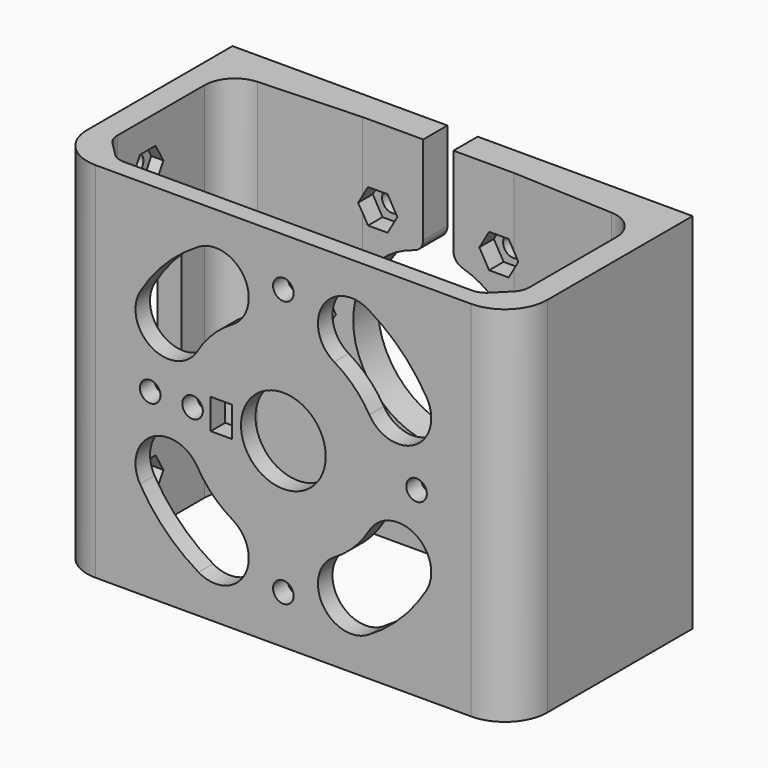
from build123d import *

# Parameters (mm, degrees)
SKETCH_W              = 76
SKETCH_H              = 37
PAD_DEPTH             = 30
SKETCH020_R           = 14
POCKET_DEPTH          = 8
SKETCH026_R           = 1.7
PAD001_DEPTH          = 2
POCKET001_DEPTH       = 5
POLARPATTERN_COUNT    = 6
SKETCH025_R           = 1.7
POCKET005_DEPTH       = 212.317184
POLARPATTERN001_COUNT = 6
SKETCH022_R           = 1.7
SKETCH022_R_2         = 7
SKETCH022_W           = 3.5
SKETCH022_H           = 5
POCKET002_DEPTH       = 5
SKETCH027_W           = 5
SKETCH027_H           = 30
POCKET006_DEPTH       = 5.001
SKETCH028_R           = 1.6
POCKET007_DEPTH       = 5
POCKET008_DEPTH       = 2
FILLET_R              = 7
FILLET001_R           = 7
FILLET002_R           = 5
FILLET003_R           = 5
FILLET004_R           = 3
FILLET005_R           = 3
FILLET006_R           = 3
FILLET007_R           = 3
FILLET008_R           = 2
FILLET009_R           = 2


with BuildPart() as part:
    # Sketch → Pad (new body, symmetric)
    with BuildSketch(Plane.XY):
        Rectangle(SKETCH_W, SKETCH_H)
        Polygon((-34, -11.5), (-30, -15.5), (30, -15.5), (34, -11.5), (34, 12.5), (12.5, 13.5), (-12.5, 13.5), (-34, 12.5), align=None, mode=Mode.SUBTRACT)
    extrude(amount=PAD_DEPTH, both=True)

    # Sketch020 → Pocket (cut)
    with BuildSketch(Plane(origin=(0, 18.5, 0), x_dir=(-1, 0, 0), z_dir=(0, 1, 0))):
        Circle(SKETCH020_R)
    extrude(amount=-POCKET_DEPTH, mode=Mode.SUBTRACT)

    # Sketch026 → Pad001 (new body)
    with BuildSketch(Plane.XZ.offset(-13.5)):
        with Locations((20, 0)):
            Circle(SKETCH026_R)
    extrude(amount=PAD001_DEPTH)

    # Sketch021 → Pocket001 (cut)
    with BuildSketch(Plane.XZ.offset(-11.5)):
        Polygon((18.383419, 2.8), (16.766838, 0), (18.383419, -2.8), (21.616581, -2.8), (23.233162, 0), (21.616581, 2.8), align=None)
    pocket001 = extrude(amount=-POCKET001_DEPTH, mode=Mode.SUBTRACT)

    # PolarPattern: Pocket001 ×6 about axis
    polarpattern_axis = Axis((0, 11.5, 0), (0, -1, 0))
    for i in range(1, POLARPATTERN_COUNT):
        add(pocket001.rotate(polarpattern_axis, i * 360 / POLARPATTERN_COUNT), mode=Mode.SUBTRACT)

    # Sketch025 → Pocket005 (cut, through all)
    with BuildSketch(Plane.XZ.offset(-13.5)):
        with Locations((20, 0)):
            Circle(SKETCH025_R)
    pocket005 = extrude(amount=-POCKET005_DEPTH, mode=Mode.SUBTRACT)

    # PolarPattern001: Pocket005 ×6 about axis
    polarpattern001_axis = Axis((0, 13.5, 0), (0, -1, 0))
    for i in range(1, POLARPATTERN001_COUNT):
        add(pocket005.rotate(polarpattern001_axis, i * 360 / POLARPATTERN001_COUNT), mode=Mode.SUBTRACT)

    # Sketch022 → Pocket002 (cut)
    with BuildSketch(Plane.XZ.offset(18.5)):
        with Locations((0, 22)):
            Circle(SKETCH022_R)
        with Locations((0, -22)):
            Circle(SKETCH022_R)
        with Locations((-22, 0)):
            Circle(SKETCH022_R)
        with Locations((22, 0)):
            Circle(SKETCH022_R)
        Circle(SKETCH022_R_2)
        with Locations((-15, 0)):
            Circle(SKETCH022_R)
        with BuildLine():
            ThreePointArc((-23.660997, 14.014536), (-21.731705, 6.47943), (-14.196598, 8.408722))
            ThreePointArc((-8.408722, 14.196598), (-11.667262, 11.667262), (-14.196598, 8.408722))
            ThreePointArc((-8.408722, 14.196598), (-6.47943, 21.731705), (-14.014536, 23.660997))
            ThreePointArc((-14.014536, 23.660997), (-19.445436, 19.445436), (-23.660997, 14.014536))
        make_face()
        with BuildLine():
            ThreePointArc((8.408722, -14.196598), (11.667262, -11.667262), (14.196598, -8.408722))
            ThreePointArc((23.660997, -14.014536), (21.731705, -6.47943), (14.196598, -8.408722))
            ThreePointArc((14.014536, -23.660997), (19.445436, -19.445436), (23.660997, -14.014536))
            ThreePointArc((8.408722, -14.196598), (6.47943, -21.731705), (14.014536, -23.660997))
        make_face()
        with BuildLine():
            ThreePointArc((23.660997, 14.014536), (19.445436, 19.445436), (14.014536, 23.660997))
            ThreePointArc((14.014536, 23.660997), (6.47943, 21.731705), (8.408722, 14.196598))
            ThreePointArc((14.196598, 8.408722), (11.667262, 11.667262), (8.408722, 14.196598))
            ThreePointArc((14.196598, 8.408722), (21.731705, 6.47943), (23.660997, 14.014536))
        make_face()
        with BuildLine():
            ThreePointArc((-14.014536, -23.660997), (-6.47943, -21.731705), (-8.408722, -14.196598))
            ThreePointArc((-14.196598, -8.408722), (-11.667262, -11.667262), (-8.408722, -14.196598))
            ThreePointArc((-14.196598, -8.408722), (-21.731705, -6.47943), (-23.660997, -14.014536))
            ThreePointArc((-23.660997, -14.014536), (-19.445436, -19.445436), (-14.014536, -23.660997))
        make_face()
        with Locations((-10.25, 0)):
            Rectangle(SKETCH022_W, SKETCH022_H)
    extrude(amount=-POCKET002_DEPTH, mode=Mode.SUBTRACT)

    # Sketch027 → Pocket006 (cut, through all)
    with BuildSketch(Plane.XZ.offset(-13.5)):
        with Locations((0, 15)):
            Rectangle(SKETCH027_W, SKETCH027_H)
    extrude(amount=-POCKET006_DEPTH, mode=Mode.SUBTRACT)

    # Sketch028 → Pocket007 (cut)
    with BuildSketch(Plane(origin=(-38, 0, 0), x_dir=(0, -1, 0), z_dir=(-1, 0, 0))):
        with Locations((4, 22.5)):
            Circle(SKETCH028_R)
        with Locations((4, -22.5)):
            Circle(SKETCH028_R)
        with BuildLine():
            ThreePointArc((11, 10), (4, 17), (-3, 10))
            Line((-3, 10), (-3, -10))
            ThreePointArc((-3, -10), (4, -17), (11, -10))
            Line((11, 10), (11, -10))
        make_face()
    extrude(amount=-POCKET007_DEPTH, mode=Mode.SUBTRACT)

    # Sketch029 → Pocket008 (cut)
    with BuildSketch(Plane.YZ.offset(-34)):
        Polygon((-2.383419, 19.7), (-0.766838, 22.5), (-2.383419, 25.3), (-5.616581, 25.3), (-7.233162, 22.5), (-5.616581, 19.7), align=None)
        Polygon((-7.233162, -22.5), (-5.616581, -25.3), (-2.383419, -25.3), (-0.766838, -22.5), (-2.383419, -19.7), (-5.616581, -19.7), align=None)
    extrude(amount=-POCKET008_DEPTH, mode=Mode.SUBTRACT)

    # Fillet
    fillet_edges = [part.edges().sort_by_distance(p)[0] for p in [
        (-38, -18.5, 0),
    ]]
    fillet(fillet_edges, radius=FILLET_R)

    # Fillet001
    fillet001_edges = [part.edges().sort_by_distance(p)[0] for p in [
        (38, -18.5, 0),
    ]]
    fillet(fillet001_edges, radius=FILLET001_R)

    # Fillet002
    fillet002_edges = [part.edges().sort_by_distance(p)[0] for p in [
        (-34, 12.5, 0),
    ]]
    fillet(fillet002_edges, radius=FILLET002_R)

    # Fillet003
    fillet003_edges = [part.edges().sort_by_distance(p)[0] for p in [
        (34, 12.5, 0),
    ]]
    fillet(fillet003_edges, radius=FILLET003_R)

    # Fillet004
    fillet004_edges = [part.edges().sort_by_distance(p)[0] for p in [
        (-30, -15.5, 0),
    ]]
    fillet(fillet004_edges, radius=FILLET004_R)

    # Fillet005
    fillet005_edges = [part.edges().sort_by_distance(p)[0] for p in [
        (30, -15.5, 0),
    ]]
    fillet(fillet005_edges, radius=FILLET005_R)

    # Fillet006
    fillet006_edges = [part.edges().sort_by_distance(p)[0] for p in [
        (34, -11.5, 0),
    ]]
    fillet(fillet006_edges, radius=FILLET006_R)

    # Fillet007
    fillet007_edges = [part.edges().sort_by_distance(p)[0] for p in [
        (-34, -11.5, 0),
    ]]
    fillet(fillet007_edges, radius=FILLET007_R)

    # Fillet008
    fillet008_edges = [part.edges().sort_by_distance(p)[0] for p in [
        (-2.5, 16, 13.774977),
    ]]
    fillet(fillet008_edges, radius=FILLET008_R)

    # Fillet009
    fillet009_edges = [part.edges().sort_by_distance(p)[0] for p in [
        (2.5, 16, 13.774977),
    ]]
    fillet(fillet009_edges, radius=FILLET009_R)


solid = part.part
